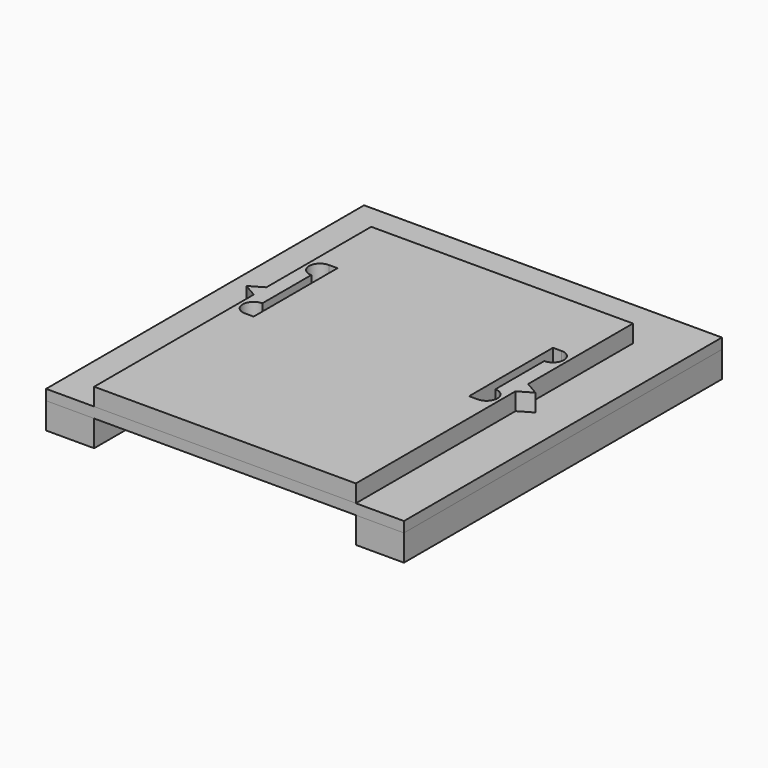
from build123d import *

# Parameters (mm, degrees)
F1_DEPTH = 2
F2_DEPTH = 4.2
F3_DEPTH = 1.2


with BuildPart() as f1:
    # F0 (on Top) → F1 (new body)
    with BuildSketch(Plane.XY):
        Polygon((-15.099153, 3.251887), (-15.099153, -19.581107), (-0.145396, -19.581107), (-0.099153, -19.581107), (14.854604, -19.581107), (14.854604, 3.251887), (16.413449, 4.151887), (14.854604, 5.051887), (14.854604, 20.051887), (-0.122275, 20.051887), (-15.099153, 20.051887), (-15.099153, 5.051887), (-16.657999, 4.151887), align=None)
        with BuildLine():
            ThreePointArc((-13.449153, 9.419125), (-14.699153, 10.669125), (-13.449153, 11.919125))
            Line((-13.449153, 11.919125), (-12.449153, 11.919125))
            Line((-12.449153, 11.919125), (-12.449153, -0.080875))
            Line((-12.449153, -0.080875), (-13.449153, -0.080875))
            ThreePointArc((-13.449153, -0.080875), (-14.699153, 1.169125), (-13.449153, 2.419125))
            Line((-13.449153, 2.419125), (-13.449153, 9.419125))
        make_face(mode=Mode.SUBTRACT)
        with BuildLine():
            ThreePointArc((13.204604, 2.419125), (14.454604, 1.169125), (13.204604, -0.080875))
            Line((13.204604, -0.080875), (12.204604, -0.080875))
            Line((12.204604, -0.080875), (12.204604, 11.919125))
            Line((12.204604, 11.919125), (13.204604, 11.919125))
            ThreePointArc((13.204604, 11.919125), (14.454604, 10.669125), (13.204604, 9.419125))
            Line((13.204604, 9.419125), (13.204604, 2.419125))
        make_face(mode=Mode.SUBTRACT)
        Polygon((-15.099153, 3.251887), (-15.099153, -19.581107), (-0.145396, -19.581107), (-0.099153, -19.581107), (14.854604, -19.581107), (14.854604, 3.251887), (16.413449, 4.151887), (14.854604, 5.051887), (14.854604, 20.051887), (-0.122275, 20.051887), (-15.099153, 20.051887), (-15.099153, 5.051887), (-16.657999, 4.151887), align=None)
        with BuildLine():
            ThreePointArc((-13.449153, 9.419125), (-14.699153, 10.669125), (-13.449153, 11.919125))
            Line((-13.449153, 11.919125), (-12.449153, 11.919125))
            Line((-12.449153, 11.919125), (-12.449153, -0.080875))
            Line((-12.449153, -0.080875), (-13.449153, -0.080875))
            ThreePointArc((-13.449153, -0.080875), (-14.699153, 1.169125), (-13.449153, 2.419125))
            Line((-13.449153, 2.419125), (-13.449153, 9.419125))
        make_face(mode=Mode.SUBTRACT)
        with BuildLine():
            ThreePointArc((13.204604, 2.419125), (14.454604, 1.169125), (13.204604, -0.080875))
            Line((13.204604, -0.080875), (12.204604, -0.080875))
            Line((12.204604, -0.080875), (12.204604, 11.919125))
            Line((12.204604, 11.919125), (13.204604, 11.919125))
            ThreePointArc((13.204604, 11.919125), (14.454604, 10.669125), (13.204604, 9.419125))
            Line((13.204604, 9.419125), (13.204604, 2.419125))
        make_face(mode=Mode.SUBTRACT)
    extrude(amount=F1_DEPTH)


with BuildPart() as f2:
    # F0 (on Top) → F2 (new body)
    with BuildSketch(Plane.XY):
        Polygon((-20.599153, -4.098113), (-15.599153, -4.098113), (-15.599153, 3.151887), (-17.331204, 4.151887), (-15.599153, 5.151887), (-15.599153, 20.901887), (-15.599153, 25.901887), (-20.599153, 25.901887), align=None)
        Polygon((-15.599153, 3.151887), (-15.599153, -4.098113), (-20.599153, -4.098113), (-20.599153, -19.581107), (-15.099153, -19.581107), (-15.099153, 3.251887), (-16.657999, 4.151887), (-15.099153, 5.051887), (-15.099153, 20.051887), (-0.122275, 20.051887), (14.854604, 20.051887), (14.854604, 5.051887), (16.413449, 4.151887), (14.854604, 3.251887), (14.854604, -19.581107), (20.354604, -19.581107), (20.354604, -4.098113), (15.354604, -4.098113), (15.354604, 3.151887), (17.086655, 4.151887), (15.354604, 5.151887), (15.354604, 20.901887), (15.354604, 25.901887), (0.299157, 25.901887), (-0.122275, 25.901887), (-0.543707, 25.901887), (-15.599153, 25.901887), (-15.599153, 20.901887), (-15.599153, 5.151887), (-17.331204, 4.151887), align=None)
        Polygon((20.354604, 25.901887), (15.354604, 25.901887), (15.354604, 20.901887), (15.354604, 5.151887), (17.086655, 4.151887), (15.354604, 3.151887), (15.354604, -4.098113), (20.354604, -4.098113), align=None)
    extrude(amount=-F2_DEPTH)


with BuildPart() as f3:
    # F0 (on Top) → F3 (new body)
    with BuildSketch(Plane.XY):
        Polygon((20.354604, 25.901887), (15.354604, 25.901887), (15.354604, 20.901887), (15.354604, 5.151887), (17.086655, 4.151887), (15.354604, 3.151887), (15.354604, -4.098113), (20.354604, -4.098113), align=None)
        Polygon((-15.099153, 3.251887), (-15.099153, -19.581107), (-0.145396, -19.581107), (-0.099153, -19.581107), (14.854604, -19.581107), (14.854604, 3.251887), (16.413449, 4.151887), (14.854604, 5.051887), (14.854604, 20.051887), (-0.122275, 20.051887), (-15.099153, 20.051887), (-15.099153, 5.051887), (-16.657999, 4.151887), align=None)
        with BuildLine():
            ThreePointArc((-13.449153, 9.419125), (-14.699153, 10.669125), (-13.449153, 11.919125))
            Line((-13.449153, 11.919125), (-12.449153, 11.919125))
            Line((-12.449153, 11.919125), (-12.449153, -0.080875))
            Line((-12.449153, -0.080875), (-13.449153, -0.080875))
            ThreePointArc((-13.449153, -0.080875), (-14.699153, 1.169125), (-13.449153, 2.419125))
            Line((-13.449153, 2.419125), (-13.449153, 9.419125))
        make_face(mode=Mode.SUBTRACT)
        with BuildLine():
            ThreePointArc((13.204604, 2.419125), (14.454604, 1.169125), (13.204604, -0.080875))
            Line((13.204604, -0.080875), (12.204604, -0.080875))
            Line((12.204604, -0.080875), (12.204604, 11.919125))
            Line((12.204604, 11.919125), (13.204604, 11.919125))
            ThreePointArc((13.204604, 11.919125), (14.454604, 10.669125), (13.204604, 9.419125))
            Line((13.204604, 9.419125), (13.204604, 2.419125))
        make_face(mode=Mode.SUBTRACT)
        Polygon((-15.599153, 3.151887), (-15.599153, -4.098113), (-20.599153, -4.098113), (-20.599153, -19.581107), (-15.099153, -19.581107), (-15.099153, 3.251887), (-16.657999, 4.151887), (-15.099153, 5.051887), (-15.099153, 20.051887), (-0.122275, 20.051887), (14.854604, 20.051887), (14.854604, 5.051887), (16.413449, 4.151887), (14.854604, 3.251887), (14.854604, -19.581107), (20.354604, -19.581107), (20.354604, -4.098113), (15.354604, -4.098113), (15.354604, 3.151887), (17.086655, 4.151887), (15.354604, 5.151887), (15.354604, 20.901887), (15.354604, 25.901887), (0.299157, 25.901887), (-0.122275, 25.901887), (-0.543707, 25.901887), (-15.599153, 25.901887), (-15.599153, 20.901887), (-15.599153, 5.151887), (-17.331204, 4.151887), align=None)
        Polygon((-20.599153, -4.098113), (-15.599153, -4.098113), (-15.599153, 3.151887), (-17.331204, 4.151887), (-15.599153, 5.151887), (-15.599153, 20.901887), (-15.599153, 25.901887), (-20.599153, 25.901887), align=None)
        Polygon((-15.599153, 3.151887), (-15.599153, -4.098113), (-20.599153, -4.098113), (-20.599153, -19.581107), (-15.099153, -19.581107), (-15.099153, 3.251887), (-16.657999, 4.151887), (-15.099153, 5.051887), (-15.099153, 20.051887), (-0.122275, 20.051887), (14.854604, 20.051887), (14.854604, 5.051887), (16.413449, 4.151887), (14.854604, 3.251887), (14.854604, -19.581107), (20.354604, -19.581107), (20.354604, -4.098113), (15.354604, -4.098113), (15.354604, 3.151887), (17.086655, 4.151887), (15.354604, 5.151887), (15.354604, 20.901887), (15.354604, 25.901887), (0.299157, 25.901887), (-0.122275, 25.901887), (-0.543707, 25.901887), (-15.599153, 25.901887), (-15.599153, 20.901887), (-15.599153, 5.151887), (-17.331204, 4.151887), align=None)
        with BuildLine():
            Line((-12.449153, 11.919125), (-13.449153, 11.919125))
            ThreePointArc((-13.449153, 11.919125), (-14.699153, 10.669125), (-13.449153, 9.419125))
            Line((-13.449153, 9.419125), (-13.449153, 2.419125))
            ThreePointArc((-13.449153, 2.419125), (-14.699153, 1.169125), (-13.449153, -0.080875))
            Line((-13.449153, -0.080875), (-12.449153, -0.080875))
            Line((-12.449153, -0.080875), (-12.449153, 11.919125))
        make_face()
        with BuildLine():
            Line((12.204604, -0.080875), (13.204604, -0.080875))
            ThreePointArc((13.204604, -0.080875), (14.454604, 1.169125), (13.204604, 2.419125))
            Line((13.204604, 2.419125), (13.204604, 9.419125))
            ThreePointArc((13.204604, 9.419125), (14.454604, 10.669125), (13.204604, 11.919125))
            Line((13.204604, 11.919125), (12.204604, 11.919125))
            Line((12.204604, 11.919125), (12.204604, -0.080875))
        make_face()
    extrude(amount=-F3_DEPTH)


solid = Compound([f1.part, f2.part, f3.part])
